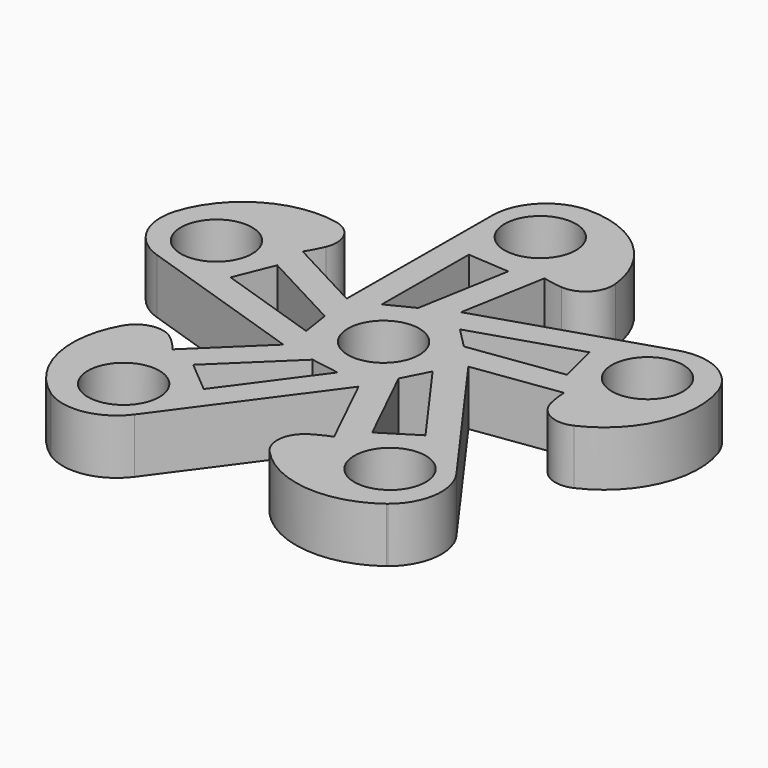
from build123d import *

# Parameters (mm, degrees)
F0_R     = 12.5
F2_DEPTH = 10
F3_R     = 6.5
F4_DEPTH = 10
F1_R     = 6.5
F5_DEPTH = 10
F7_DEPTH = 10


with BuildPart() as f2:
    # F0 (on Top) → F2 (new body)
    with BuildSketch(Plane.XY):
        Circle(F0_R)
    extrude(amount=F2_DEPTH)

    # F3 (on Top) → F4 (join)
    with BuildSketch(Plane.XY):
        with BuildLine():
            Line((34.328218, 24.012301), (2.916428, 13.975679))
            Line((2.916428, 13.975679), (5.668561, 29.53591))
            ThreePointArc((5.668561, 29.53591), (7.450694, 29.144745), (9.261052, 28.917566))
            ThreePointArc((9.261052, 28.917566), (13.244302, 30.419157), (14.627135, 34.445176))
            ThreePointArc((14.627135, 34.445176), (8.904501, 45.49223), (-2.762528, 49.812691))
            ThreePointArc((-2.762528, 49.812691), (-2.862519, 49.810248), (-2.962442, 49.805804))
            ThreePointArc((-2.962442, 49.805804), (-9.528349, 46.776185), (-12.229052, 40.068284))
            Line((-12.229052, 40.068284), (-12.390435, 7.09241))
            Line((-12.390435, 7.09241), (-26.338638, 14.51822))
            ThreePointArc((-26.338638, 14.51822), (-25.415909, 16.092253), (-24.640417, 17.743804))
            ThreePointArc((-24.640417, 17.743804), (-24.837623, 21.996117), (-28.239276, 24.555377))
            ThreePointArc((-28.239276, 24.555377), (-40.51404, 22.526556), (-48.228353, 12.765648))
            ThreePointArc((-48.228353, 12.765648), (-48.256928, 12.669795), (-48.283579, 12.57339))
            ThreePointArc((-48.283579, 12.57339), (-47.431217, 5.392638), (-41.886188, 0.751261))
            Line((-41.886188, 0.751261), (-10.574138, -9.592329))
            Line((-10.574138, -9.592329), (-21.946735, -20.563157))
            ThreePointArc((-21.946735, -20.563157), (-23.158589, -19.199186), (-24.489668, -17.951293))
            ThreePointArc((-24.489668, -17.951293), (-28.594798, -16.824809), (-32.079968, -19.269118))
            ThreePointArc((-32.079968, -19.269118), (-33.943555, -31.570053), (-27.044233, -41.923087))
            ThreePointArc((-27.044233, -41.923087), (-26.961902, -41.979883), (-26.878451, -42.035021))
            ThreePointArc((-26.878451, -42.035021), (-19.785755, -43.443351), (-13.658035, -39.60398))
            Line((-13.658035, -39.60398), (5.855259, -13.020795))
            Line((5.855259, -13.020795), (12.77481, -27.22695))
            ThreePointArc((12.77481, -27.22695), (11.103113, -27.958002), (9.50497, -28.838313))
            ThreePointArc((9.50497, -28.838313), (7.165066, -32.394421), (8.412765, -36.464347))
            ThreePointArc((8.412765, -36.464347), (19.535769, -42.037922), (31.514097, -38.675541))
            ThreePointArc((31.514097, -38.675541), (31.593556, -38.61479), (31.671783, -38.552462))
            ThreePointArc((31.671783, -38.552462), (35.202948, -32.242106), (33.445058, -25.227866))
            Line((33.445058, -25.227866), (14.192887, 1.545035))
            Line((14.192887, 1.545035), (29.842002, 3.735976))
            ThreePointArc((29.842002, 3.735976), (30.020691, 1.920191), (30.364063, 0.128235))
            ThreePointArc((30.364063, 0.128235), (33.023052, -3.196044), (37.279343, -3.267088))
            ThreePointArc((37.279343, -3.267088), (46.017324, 5.589188), (46.521017, 18.020288))
            ThreePointArc((46.521017, 18.020288), (46.487793, 18.114631), (46.45269, 18.208289))
            ThreePointArc((46.45269, 18.208289), (41.542374, 23.516634), (34.328218, 24.012301))
        make_face()
        with Locations((-20.751796, -33.213474)):
            Circle(F3_R, mode=Mode.SUBTRACT)
        with Locations((25.175233, -29.999658)):
            Circle(F3_R, mode=Mode.SUBTRACT)
        with Locations((-38.000548, 9.472603)):
            Circle(F3_R, mode=Mode.SUBTRACT)
        with Locations((-2.733835, 39.067864)):
            Circle(F3_R, mode=Mode.SUBTRACT)
        with Locations((36.310946, 14.672665)):
            Circle(F3_R, mode=Mode.SUBTRACT)
    extrude(amount=F4_DEPTH)

    # F1 (on Top) → F5 (cut)
    with BuildSketch(Plane.XY):
        Circle(F1_R)
    extrude(amount=F5_DEPTH, mode=Mode.SUBTRACT)

    # F6 (on Top) → F7 (cut)
    with BuildSketch(Plane.XY):
        Polygon((0.315685, 27.979563), (-7.285573, 28.507008), (-7.38193, 8.817999), (-2.653955, 11.189572), align=None)
        Polygon((-26.512594, 8.946395), (-29.363142, 1.880158), (-10.667557, -4.295721), (-11.462033, 0.933707), align=None)
        Polygon((-16.701369, -22.450387), (-10.861847, -27.345007), (0.789017, -11.472901), (-4.429971, -10.61251), align=None)
        Polygon((16.19058, -22.821497), (22.650152, -18.780302), (11.155197, -2.794921), (8.72416, -7.492598), align=None)
        Polygon((26.707698, 8.345926), (24.86041, 15.738142), (6.105273, 9.745544), (9.821798, 5.981829), align=None)
    extrude(amount=F7_DEPTH, mode=Mode.SUBTRACT)


solid = f2.part
